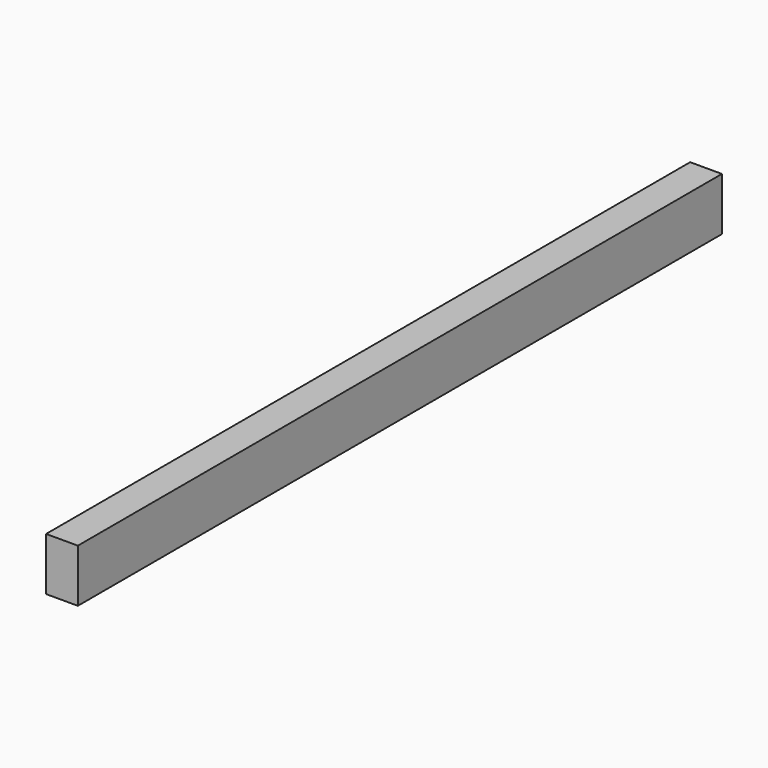
from build123d import *

# Parameters (mm, degrees)
F0_W     = 965.2
F0_H     = 63.5
F1_DEPTH = 38.1


with BuildPart() as f1:
    # F0 (on Right) → F1 (new body)
    with BuildSketch(Plane.YZ):
        Rectangle(F0_W, F0_H)
    extrude(amount=F1_DEPTH)


with BuildPart() as f1_1:
    # F3: moved
    add(f1.part.moved(Location((-19.05, 0, -31.75))))


solid = f1_1.part
